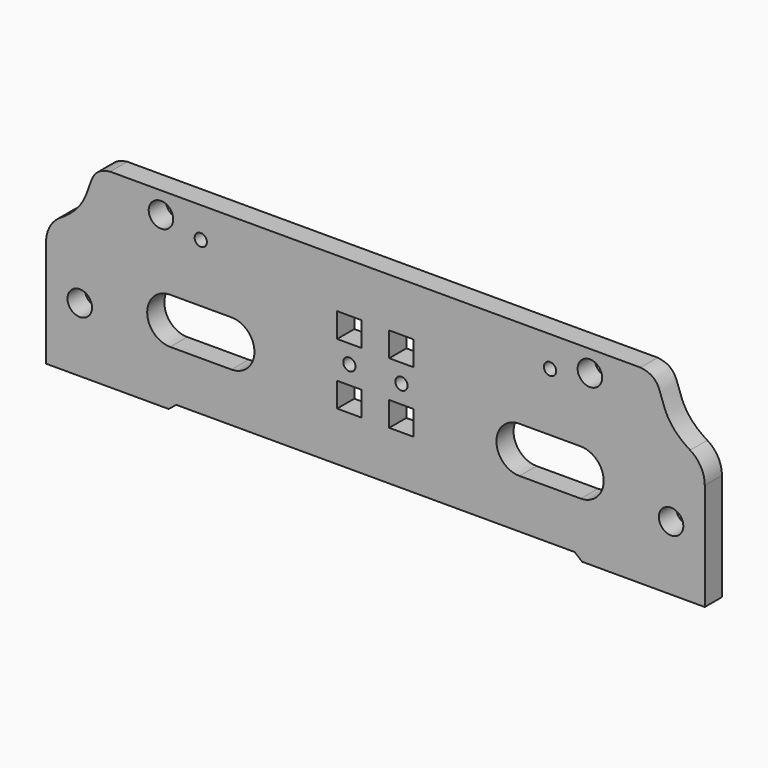
from build123d import *

# Parameters (mm, degrees)
F0_R     = 4
F0_W     = 8
F0_H     = 8
F0_R_2   = 2
F1_DEPTH = 7


with BuildPart() as f1:
    # F0 (on Front) → F1 (new body)
    with BuildSketch(Plane.XZ):
        with BuildLine():
            Line((-65, 0), (0, 0))
            Line((0, 0), (65, 0))
            Line((65, 0), (67.5, -2))
            Line((67.5, -2), (107.5, -2))
            Line((107.5, -2), (107.5, 33.005505))
            ThreePointArc((107.5, 33.005505), (106.226443, 37.88907), (102.73016, 41.528734))
            add(Edge.make_bspline(
                [(86.544819, 60), (96.58254, 58.750638), (89.657074, 49.55085), (102.73016, 41.528734)],
                knots=[0, 0, 0, 0, 26.824405, 26.824405, 26.824405, 26.824405], degree=3))
            Line((86.544819, 60), (0, 60))
            Line((0, 60), (-86.544819, 60))
            add(Edge.make_bspline(
                [(-86.544819, 60), (-96.58254, 58.750638), (-89.657074, 49.55085), (-102.73016, 41.528734)],
                knots=[0, 0, 0, 0, 26.824405, 26.824405, 26.824405, 26.824405], degree=3))
            ThreePointArc((-102.73016, 41.528734), (-106.226443, 37.88907), (-107.5, 33.005505))
            Line((-107.5, 33.005505), (-107.5, -2))
            Line((-107.5, -2), (-67.5, -2))
            Line((-67.5, -2), (-65, 0))
        make_face()
        with Locations((-96.5, 19)):
            Circle(F0_R, mode=Mode.SUBTRACT)
        with BuildLine():
            Line((-67, 31), (-47, 31))
            ThreePointArc((-47, 31), (-39.5, 23.5), (-47, 16))
            Line((-47, 16), (-67, 16))
            ThreePointArc((-67, 16), (-74.5, 23.5), (-67, 31))
        make_face(mode=Mode.SUBTRACT)
        with Locations((-8.5, 20)):
            Rectangle(F0_W, F0_H, mode=Mode.SUBTRACT)
        with Locations((8.5, 20)):
            Rectangle(F0_W, F0_H, mode=Mode.SUBTRACT)
        with Locations((96.5, 19)):
            Circle(F0_R, mode=Mode.SUBTRACT)
        with BuildLine():
            ThreePointArc((47, 16), (39.5, 23.5), (47, 31))
            Line((47, 31), (67, 31))
            ThreePointArc((67, 31), (74.5, 23.5), (67, 16))
            Line((67, 16), (47, 16))
        make_face(mode=Mode.SUBTRACT)
        with Locations((-8.5, 30)):
            Circle(F0_R_2, mode=Mode.SUBTRACT)
        with Locations((-8.5, 40)):
            Rectangle(F0_W, F0_H, mode=Mode.SUBTRACT)
        with Locations((-57, 50)):
            Circle(F0_R_2, mode=Mode.SUBTRACT)
        with Locations((-70, 53)):
            Circle(F0_R, mode=Mode.SUBTRACT)
        with Locations((8.5, 30)):
            Circle(F0_R_2, mode=Mode.SUBTRACT)
        with Locations((8.5, 40)):
            Rectangle(F0_W, F0_H, mode=Mode.SUBTRACT)
        with Locations((57, 50)):
            Circle(F0_R_2, mode=Mode.SUBTRACT)
        with Locations((70, 53)):
            Circle(F0_R, mode=Mode.SUBTRACT)
    extrude(amount=F1_DEPTH)


solid = f1.part
